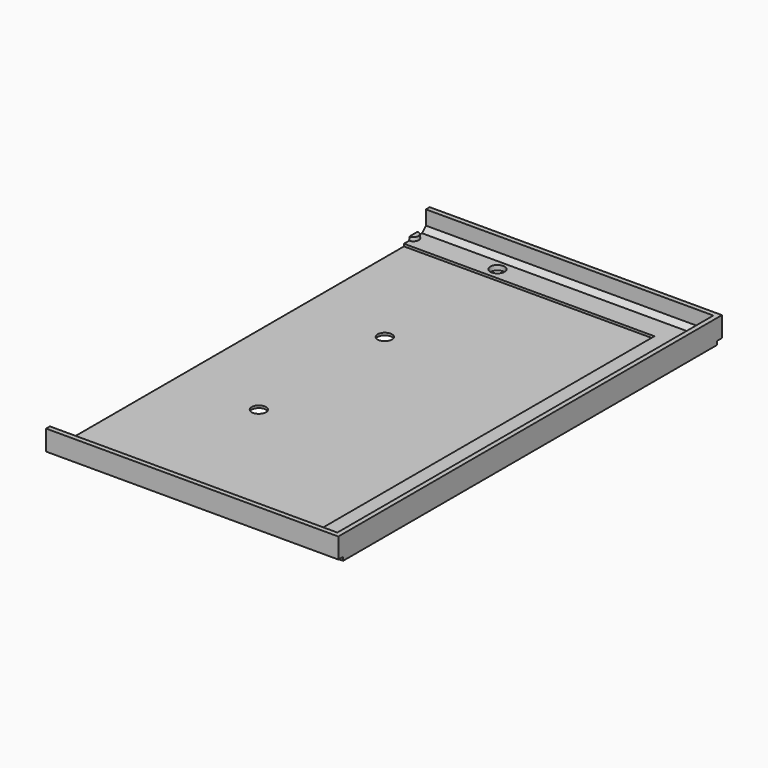
from build123d import *

# Parameters (mm, degrees)
F0_W        = 245
F0_H        = 201
F1_DEPTH    = 8
F2_T        = -2
F3_W        = 210
F3_H        = 174
F4_DEPTH    = 1
F5_W        = 3.5
F5_H        = 33
F6_DEPTH    = 1
F8_W        = 3.5
F8_H        = 4.5
F9_DEPTH    = 1
F10_R       = 2.25
F11_DEPTH   = 1.5
F12_SIZE2   = 1.4896513151
F12_SIZE    = 0.15
F12_2_SIZE2 = 1.4896513151
F12_2_SIZE  = 0.15
F12_3_SIZE2 = 1.4896513151
F12_3_SIZE  = 0.15
F12_4_SIZE2 = 1.4896513151
F12_4_SIZE  = 0.15
F12_5_SIZE2 = 1.4896513151
F12_5_SIZE  = 0.15
F13_R       = 3
F14_DEPTH   = 2.001
F15_W       = 2.5
F15_H       = 1.5
F16_DEPTH   = 245.001
F17_SIZE    = 2
F18_DEPTH   = 2
F19_W       = 141.9361917675
F19_H       = 219.9546247721
F20_DEPTH   = 10.001


with BuildPart() as f1:
    # F0 (on Top) → F1 (new body)
    with BuildSketch(Plane.XY):
        with Locations((122.5, -100.5)):
            Rectangle(F0_W, F0_H)
    extrude(amount=F1_DEPTH)

    # F2
    f2_openings = [f1.faces().sort_by_distance(p)[0] for p in [
        (122.5, -100.5, 8),
    ]]
    offset(amount=F2_T, openings=f2_openings)

    # F3 (on face) → F4 (cut)
    with BuildSketch(Plane.XY.offset(2)):
        with Locations((122.5, -100.5)):
            Rectangle(F3_W, F3_H)
    extrude(amount=-F4_DEPTH, mode=Mode.SUBTRACT)

    # F5 (on face) → F6 (cut)
    with BuildSketch(Plane.XY.offset(2)):
        with Locations((6.25, -27.5)):
            Rectangle(F5_W, F5_H)
        with Locations((6.25, -173.5)):
            Rectangle(F5_W, F5_H)
        with Locations((238.75, -27.5)):
            Rectangle(F5_W, F5_H)
        with Locations((238.75, -173.5)):
            Rectangle(F5_W, F5_H)
    extrude(amount=-F6_DEPTH, mode=Mode.SUBTRACT)

    # F8 (on face) → F9 (join)
    with BuildSketch(Plane.XY.offset(2)):
        with Locations((238.75, -173.5)):
            Rectangle(F8_W, F8_H)
        with Locations((238.75, -27.5)):
            Rectangle(F8_W, F8_H)
        with Locations((6.25, -27.5)):
            Rectangle(F8_W, F8_H)
        with Locations((6.25, -173.5)):
            Rectangle(F8_W, F8_H)
    extrude(amount=-F9_DEPTH)

    # F10 (on face) → F11 (join)
    with BuildSketch(Plane.XY.offset(2)):
        with Locations((238.5, -27.5)):
            Circle(F10_R)
        with Locations((6.5, -27.5)):
            Circle(F10_R)
        with Locations((6.5, -173.5)):
            Circle(F10_R)
        with Locations((238.5, -173.5)):
            Circle(F10_R)
        with Locations((122.5, -8.5)):
            Circle(F10_R)
    extrude(amount=F11_DEPTH)

    # F12
    f12_edges = [f1.edges().sort_by_distance(p)[0] for p in [
        (236.25, -173.5, 3.5),
    ]]
    f12_side = f1.faces().sort_by_distance((238.5, -173.5, 3.5))[0]
    chamfer(f12_edges, length=F12_SIZE, length2=F12_SIZE2, reference=f12_side)

    # F12#2
    f12_2_edges = [f1.edges().sort_by_distance(p)[0] for p in [
        (4.25, -173.5, 3.5),
    ]]
    f12_2_side = f1.faces().sort_by_distance((6.5, -173.5, 3.5))[0]
    chamfer(f12_2_edges, length=F12_2_SIZE, length2=F12_2_SIZE2, reference=f12_2_side)

    # F12#3
    f12_3_edges = [f1.edges().sort_by_distance(p)[0] for p in [
        (236.25, -27.5, 3.5),
    ]]
    f12_3_side = f1.faces().sort_by_distance((238.5, -27.5, 3.5))[0]
    chamfer(f12_3_edges, length=F12_3_SIZE, length2=F12_3_SIZE2, reference=f12_3_side)

    # F12#4
    f12_4_edges = [f1.edges().sort_by_distance(p)[0] for p in [
        (4.25, -27.5, 3.5),
    ]]
    f12_4_side = f1.faces().sort_by_distance((6.5, -27.5, 3.5))[0]
    chamfer(f12_4_edges, length=F12_4_SIZE, length2=F12_4_SIZE2, reference=f12_4_side)

    # F12#5
    f12_5_edges = [f1.edges().sort_by_distance(p)[0] for p in [
        (120.25, -8.5, 3.5),
    ]]
    f12_5_side = f1.faces().sort_by_distance((122.5, -8.5, 3.5))[0]
    chamfer(f12_5_edges, length=F12_5_SIZE, length2=F12_5_SIZE2, reference=f12_5_side)

    # F13 (on face) → F14 (cut, through all)
    with BuildSketch(Plane.XY.offset(2)):
        with Locations((7, -54.5)):
            Circle(F13_R)
        with Locations((7, -100.5)):
            Circle(F13_R)
        with Locations((7, -146.5)):
            Circle(F13_R)
        with Locations((238, -54.5)):
            Circle(F13_R)
        with Locations((238, -100.5)):
            Circle(F13_R)
        with Locations((238, -146.5)):
            Circle(F13_R)
        with Locations((87.3, -8.5)):
            Circle(F13_R)
        with Locations((87.3, -67.5)):
            Circle(F13_R)
        with Locations((157.7, -8.5)):
            Circle(F13_R)
        with Locations((157.7, -67.5)):
            Circle(F13_R)
        with Locations((157.7, -133.5)):
            Circle(F13_R)
        with Locations((157.7, -192.5)):
            Circle(F13_R)
        with Locations((87.3, -192.5)):
            Circle(F13_R)
        with Locations((87.3, -133.5)):
            Circle(F13_R)
    extrude(amount=-F14_DEPTH, mode=Mode.SUBTRACT)

    # F15 (on face) → F16 (cut, through all)
    with BuildSketch(Plane(origin=(0, 0, 0), x_dir=(0, -1, 0), z_dir=(-1, 0, 0))):
        with Locations((1.25, 0.75)):
            Rectangle(F15_W, F15_H)
        with Locations((199.75, 0.75)):
            Rectangle(F15_W, F15_H)
    extrude(amount=-F16_DEPTH, mode=Mode.SUBTRACT)

    # F17
    f17_edges = [f1.edges().sort_by_distance(p)[0] for p in [
        (122.5, -2, 2),
        (122.5, -199, 2),
    ]]
    chamfer(f17_edges, length=F17_SIZE)

    # F18 (add): a face of the model
    f18_faces = [f1.faces().sort_by_distance(p)[0] for p in [
        (122.5, -0.3169006153, 8),
    ]]
    extrude(f18_faces, amount=F18_DEPTH)

    # F19 (on face) → F20 (cut, through all)
    with BuildSketch(Plane.XY.offset(10)):
        with Locations((51.5319041163, -105.3685471416)):
            Rectangle(F19_W, F19_H)
    extrude(amount=-F20_DEPTH, mode=Mode.SUBTRACT)


solid = f1.part
